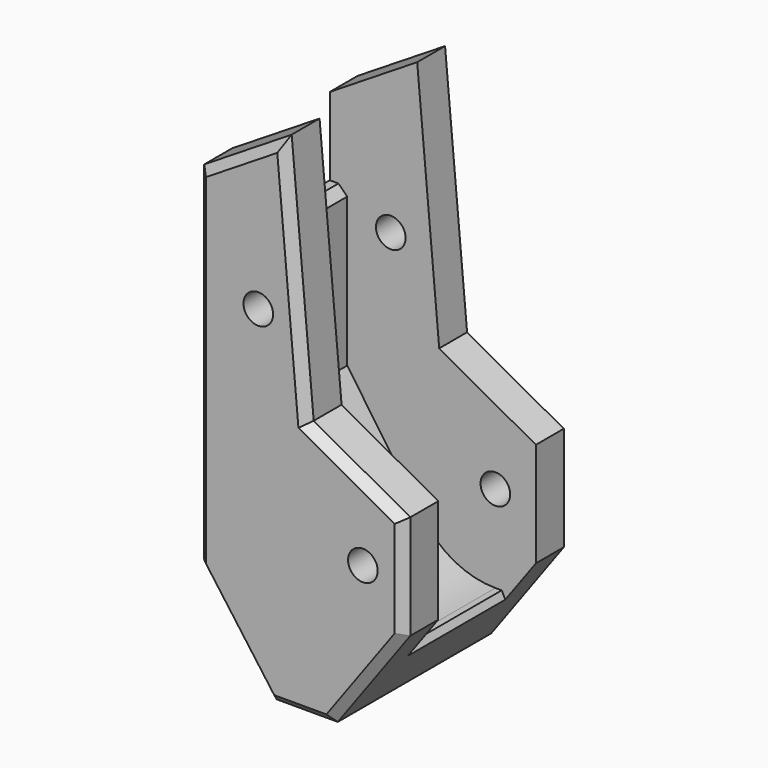
from build123d import *

# Parameters (mm, degrees)
PAD009_DEPTH    = 14
SKETCH008_R     = 1.7
PAD008_DEPTH    = 24
CHAMFER005_SIZE = 1


with BuildPart() as pad009:
    # Sketch009 → Pad009 (new body)
    with BuildSketch(Plane(origin=(0, 33, 0), x_dir=(-1, 0, 0), z_dir=(0, 1, 0))):
        with BuildLine():
            ThreePointArc((89.000023, -13), (93.632628, -11.86221), (97.21105, -8.707771))
            Line((97.21105, -8.707771), (106, 3.935782))
            Line((106, 3.935782), (106, 22))
            Line((106, 22), (112.578117, 22))
            Line((112.578117, 22), (112.578117, 42.659393))
            Line((112.578117, 42.659393), (77.159645, 42.659393))
            Line((77.159645, 42.659393), (77.159645, -13))
            Line((77.159645, -13), (89.000023, -13))
        make_face()
    extrude(amount=-PAD009_DEPTH)


with BuildPart() as foot:
    # Sketch008 → Pad008 (new body)
    with BuildSketch(Plane(origin=(0, 14, 0), x_dir=(-1, 0, 0), z_dir=(0, 1, 0))):
        Polygon((84.351819, 2.970513), (95.443832, 9.10709), (97.968148, 37.19022), (108, 30.921623), (108, -9), (99.675909, -20.407844), (92.675909, -20.407844), (84.351819, -9), align=None)
        with Locations((101, 19)):
            Circle(SKETCH008_R, mode=Mode.SUBTRACT)
        with Locations((89, -3)):
            Circle(SKETCH008_R, mode=Mode.SUBTRACT)
    extrude(amount=PAD008_DEPTH)

    # Cut014: cut Pad009
    add(pad009.part, mode=Mode.SUBTRACT)

    # Chamfer005
    chamfer005_edges = [foot.edges().sort_by_distance(p)[0] for p in [
        (-89.897825, 14, 6.038802),
        (-96.70599, 14, 23.148655),
        (-102.984074, 14, 34.055922),
        (-108, 14, 10.960812),
        (-103.837955, 14, -14.703922),
        (-96.175909, 14, -20.407844),
        (-88.513864, 14, -14.703922),
        (-84.351819, 14, -3.014744),
        (-108, 38, 10.960812),
        (-103.837955, 38, -14.703922),
        (-96.175909, 38, -20.407844),
        (-87.270544, 26, -13),
        (-88.513864, 38, -14.703922),
        (-106, 26, 22),
        (-89.897825, 38, 6.038802),
        (-96.70599, 38, 23.148655),
        (-102.984074, 38, 34.055922),
        (-84.351819, 38, -3.014744),
    ]]
    chamfer(chamfer005_edges, length=CHAMFER005_SIZE)


solid = foot.part
